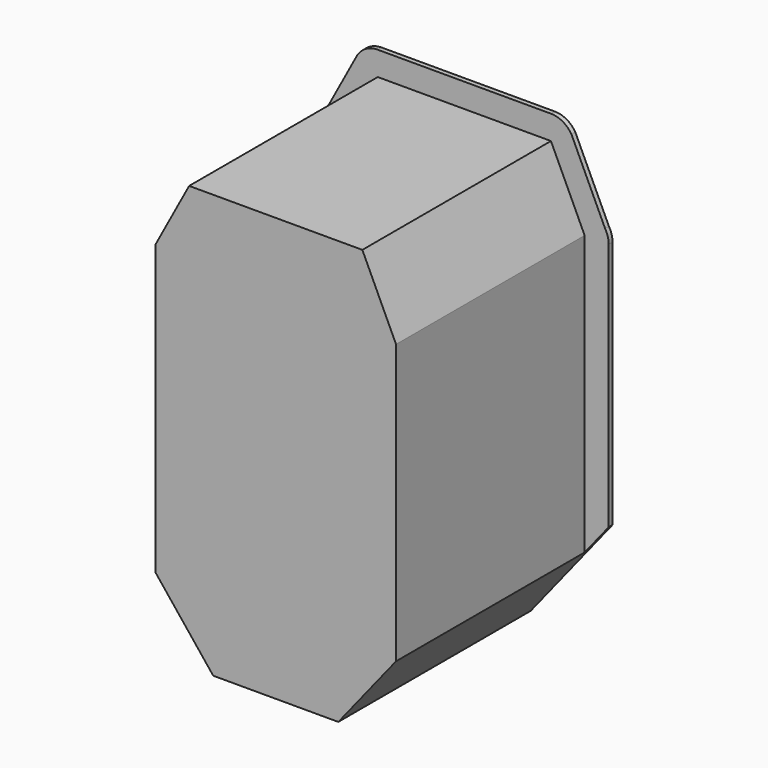
from build123d import *

# Parameters (mm, degrees)
F1_DEPTH = 250
F2_DEPTH = 5


with BuildPart() as f1:
    # F0 (on Front) → F1 (new body)
    with BuildSketch(Plane.XZ):
        Polygon((-90, 220), (-125, 155), (-125, -145), (-65, -220), (65, -220), (125, -145), (125, 145), (90, 220), align=None)
    extrude(amount=F1_DEPTH)

    # F0 (on Front) → F2 (join)
    with BuildSketch(Plane.XZ):
        with BuildLine():
            Line((-125, -145), (-125, 155))
            Line((-125, 155), (-90, 220))
            Line((-90, 220), (90, 220))
            Line((90, 220), (125, 145))
            Line((125, 145), (125, -145))
            Line((125, -145), (150, -113.75))
            Line((150, -113.75), (150, 145))
            ThreePointArc((150, 145), (149.055004, 151.808581), (146.291458, 158.102436))
            Line((146.291458, 158.102436), (111.291458, 233.102436))
            ThreePointArc((111.291458, 233.102436), (102.195063, 241.82385), (90, 245))
            Line((90, 245), (-90, 245))
            ThreePointArc((-90, 245), (-102.195063, 241.82385), (-111.291458, 233.102436))
            Line((-111.291458, 233.102436), (-146.291458, 168.102436))
            ThreePointArc((-146.291458, 168.102436), (-149.055004, 161.808581), (-150, 155))
            Line((-150, 155), (-150, -113.75))
            Line((-150, -113.75), (-125, -145))
        make_face()
    extrude(amount=F2_DEPTH)


solid = f1.part
